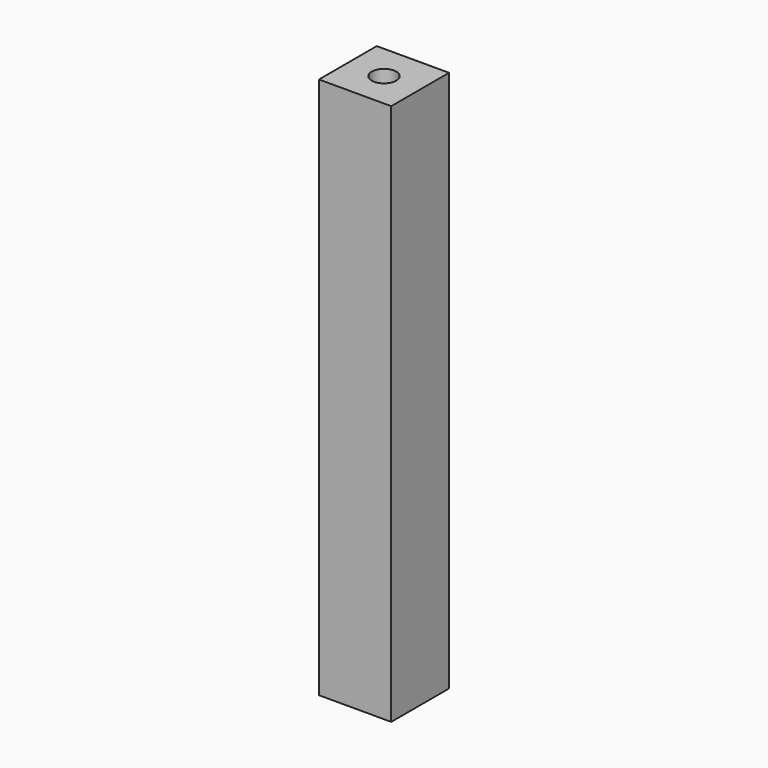
from build123d import *

# Parameters (mm, degrees)
SKETCH_W  = 10
SKETCH_H  = 10
SKETCH_R  = 1.7
PAD_DEPTH = 75


with BuildPart() as part:
    # Sketch → Pad (new body)
    with BuildSketch(Plane.XY):
        with Locations((5, 5)):
            Rectangle(SKETCH_W, SKETCH_H)
        with Locations((5, 5)):
            Circle(SKETCH_R, mode=Mode.SUBTRACT)
    extrude(amount=PAD_DEPTH)


solid = part.part
